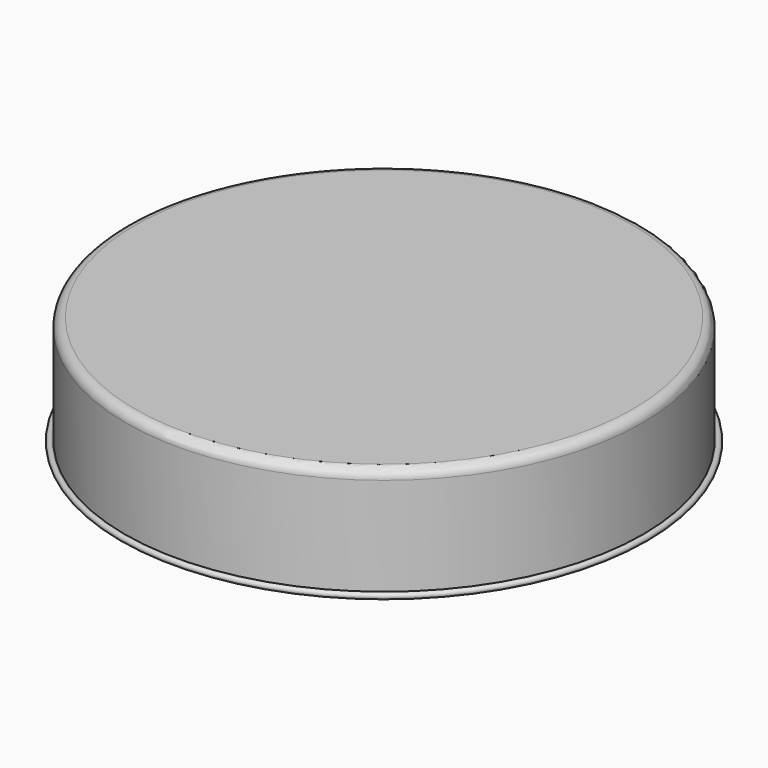
from build123d import *


with BuildPart() as f1:
    # F0 (on Front) → F1 (revolve)
    with BuildSketch(Plane.XZ):
        with BuildLine():
            Line((33.9979, 0), (0, 0))
            Line((0, 0), (0, -0.508))
            Line((0, -0.508), (33.9979, -0.508))
            ThreePointArc((33.9979, -0.508), (34.536715, -0.731185), (34.7599, -1.27))
            Line((34.7599, -1.27), (34.7599, -15.3162))
            Line((34.7599, -15.3162), (35.6743, -15.3162))
            ThreePointArc((35.6743, -15.3162), (35.961668, -14.622432), (35.2679, -14.9098))
            Line((35.2679, -14.9098), (35.2679, -1.27))
            ThreePointArc((35.2679, -1.27), (34.895926, -0.371974), (33.9979, 0))
        make_face()
    revolve(axis=Axis((0, 0, -0.254), (0, 0, -1)))


solid = f1.part
